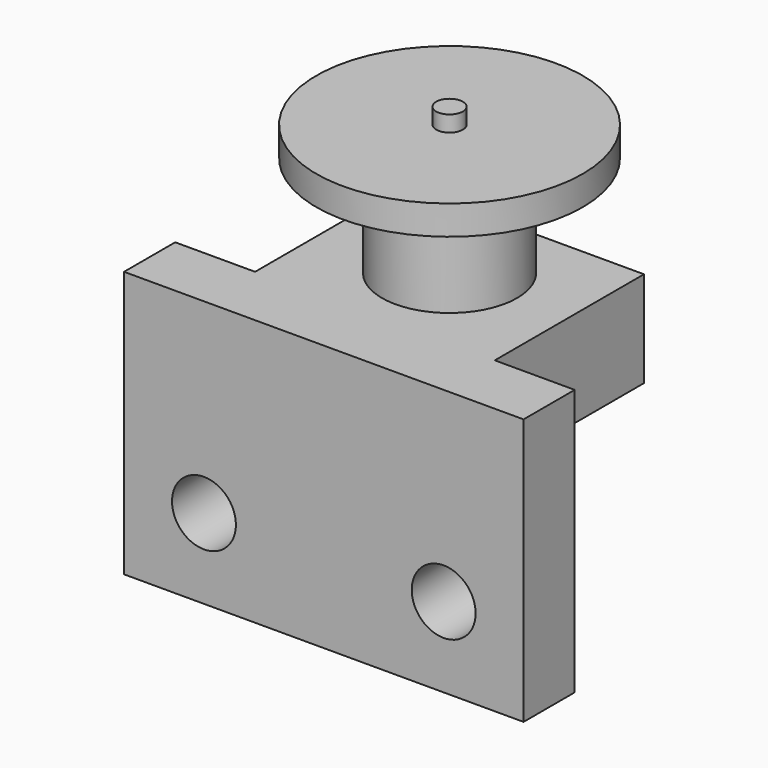
from build123d import *

# Parameters (mm, degrees)
F0_W      = 100
F0_H      = 35
F1_DEPTH  = 18
F2_R      = 12.7
F3_DEPTH  = 19
F4_R      = 25
F4_R_2    = 12.7
F5_DEPTH  = 5.5
F6_R      = 2.5
F7_DEPTH  = 3
F8_W      = 100
F8_H      = 57
F8_H_2    = 18
F9_DEPTH  = 12
F11_DEPTH = 50
F13_D     = 12
F13_DEPTH = 12
F14_W     = 15
F14_H     = 18
F15_DEPTH = 35


with BuildPart() as f1:
    # F0 (on Top) → F1 (new body)
    with BuildSketch(Plane.XY):
        Rectangle(F0_W, F0_H)
    extrude(amount=-F1_DEPTH)

    # F2 (on face) → F3 (join)
    with BuildSketch(Plane.XY):
        Circle(F2_R)
    extrude(amount=F3_DEPTH)

    # F4 (on face) → F5 (join)
    with BuildSketch(Plane.XY.offset(19)):
        Circle(F4_R)
        Circle(F4_R_2, mode=Mode.SUBTRACT)
        Circle(F4_R_2)
    extrude(amount=F5_DEPTH)

    # F6 (on face) → F7 (join)
    with BuildSketch(Plane.XY.offset(24.5)):
        Circle(F6_R)
    extrude(amount=F7_DEPTH)

    # F8 (on face) → F9 (join)
    with BuildSketch(Plane.XZ.offset(17.5)):
        with Locations((0, -46.5)):
            Rectangle(F8_W, F8_H)
        with Locations((0, -9)):
            Rectangle(F8_W, F8_H_2)
    extrude(amount=F9_DEPTH)

    # F10 (on face) → F11 (cut)
    with BuildSketch(Plane.XZ.offset(29.5)):
        Polygon((-37.5, -50), (-37.5, 0), (-50, 0), (-50, -75), (50, -75), (50, 0), (37.5, 0), (37.5, -50), align=None)
    extrude(amount=-F11_DEPTH, mode=Mode.SUBTRACT)

    # F13
    with Locations(Plane(origin=(0, -17.5, 0), x_dir=(-1, 0, 0), z_dir=(0, 1, 0))):
        with Locations((-22.5, -35), (22.5, -35)):
            Hole(F13_D / 2, depth=F13_DEPTH)

    # F14 (on face) → F15 (cut)
    with BuildSketch(Plane(origin=(0, 17.5, 0), x_dir=(-1, 0, 0), z_dir=(0, 1, 0))):
        with Locations((-30, -9)):
            Rectangle(F14_W, F14_H)
        with Locations((30, -9)):
            Rectangle(F14_W, F14_H)
    extrude(amount=-F15_DEPTH, mode=Mode.SUBTRACT)


solid = f1.part
